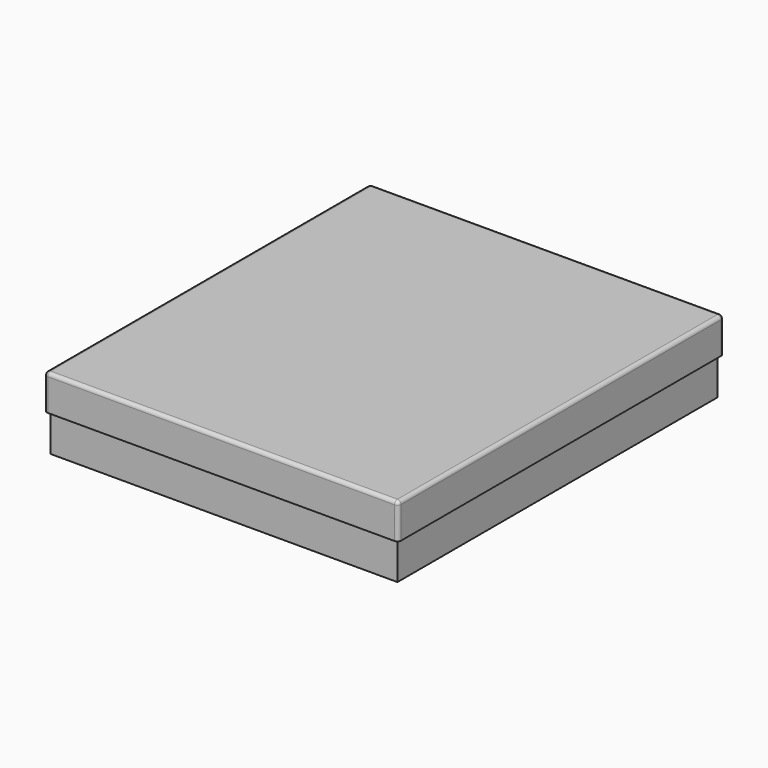
from build123d import *

# Parameters (mm, degrees)
F0_W     = 508
F0_H     = 584.2
F1_DEPTH = 50.8
F2_R     = 5.08
F3_T     = -3.175
F4_W     = 497.84
F4_H     = 574.04
F4_W_2   = 485.14
F4_H_2   = 561.34
F5_DEPTH = 101.6


with BuildPart() as f1:
    # F0 (on Top) → F1 (new body)
    with BuildSketch(Plane.XY):
        Rectangle(F0_W, F0_H)
    extrude(amount=F1_DEPTH)

    # F2
    f2_edges = [f1.edges().sort_by_distance(p)[0] for p in [
        (-254, -292.1, 25.4),
        (-254, 0, 50.8),
        (0, 292.1, 50.8),
        (0, -292.1, 50.8),
        (254, 0, 50.8),
        (254, -292.1, 25.4),
        (254, 292.1, 25.4),
        (-254, 292.1, 25.4),
    ]]
    fillet(f2_edges, radius=F2_R)

    # F3
    f3_openings = [f1.faces().sort_by_distance(p)[0] for p in [
        (0, 0, 0),
    ]]
    offset(amount=F3_T, openings=f3_openings)


with BuildPart() as f5:
    # F4 (on face) → F5 (new body)
    with BuildSketch(Plane(origin=(0, 0, 47.625), x_dir=(1, 0, 0), z_dir=(0, 0, -1))):
        Rectangle(F4_W, F4_H)
        Rectangle(F4_W_2, F4_H_2, mode=Mode.SUBTRACT)
    extrude(amount=F5_DEPTH)


solid = Compound([f1.part, f5.part])
